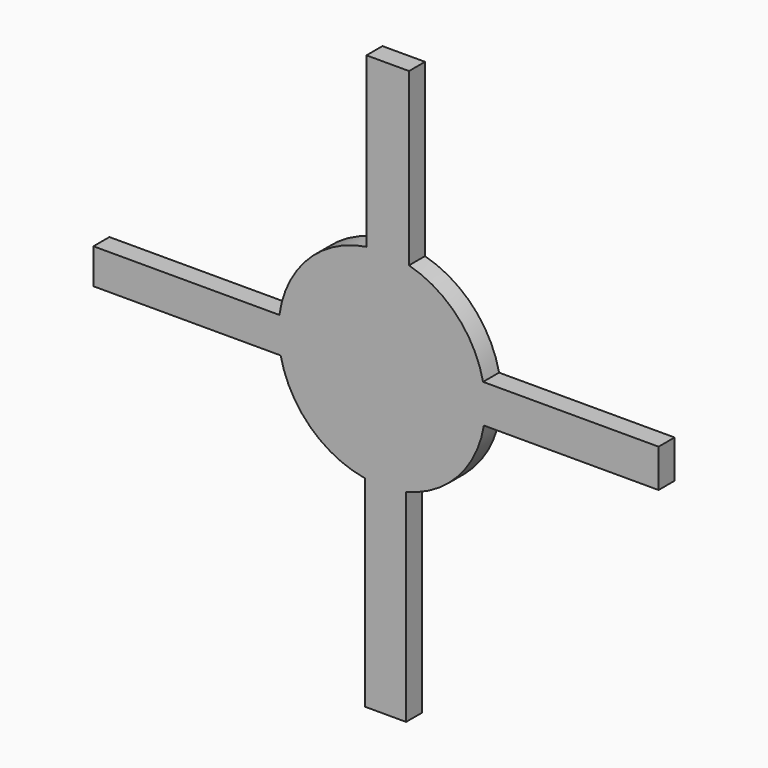
from build123d import *

# Parameters (mm, degrees)
F1_DEPTH = 3.81


with BuildPart() as f1:
    # F0 (on Front) → F1 (new body)
    with BuildSketch(Plane.XZ):
        with BuildLine():
            ThreePointArc((-2.93743, 19.487217), (1.143593, 19.674153), (5.175473, 19.015641))
            Line((5.175473, 19.015641), (5.175473, 51.614843))
            Line((5.175473, 51.614843), (-2.93743, 51.614843))
            Line((-2.93743, 51.614843), (-2.93743, 19.487217))
        make_face()
        with BuildLine():
            Line((5.175473, 11.889598), (5.175473, 19.015641))
            ThreePointArc((5.175473, 19.015641), (1.143593, 19.674153), (-2.93743, 19.487217))
            Line((-2.93743, 19.487217), (-2.93743, 11.889598))
            Line((-2.93743, 11.889598), (5.175473, 11.889598))
        make_face()
        with BuildLine():
            Line((11.050331, 4.056451), (19.285365, 4.056451))
            ThreePointArc((19.285365, 4.056451), (14.33623, 13.522301), (5.175473, 19.015641))
            Line((5.175473, 19.015641), (5.175473, 11.889598))
            Line((5.175473, 11.889598), (-2.93743, 11.889598))
            Line((-2.93743, 11.889598), (-2.93743, 19.487217))
            ThreePointArc((-2.93743, 19.487217), (-14.034771, 13.83493), (-19.527337, 2.657675))
            Line((-19.527337, 2.657675), (-16.645437, 2.657675))
            Line((-16.645437, 2.657675), (-16.645437, -4.056451))
            Line((-16.645437, -4.056451), (-19.285365, -4.056451))
            ThreePointArc((-19.285365, -4.056451), (-13.630025, -14.233851), (-3.217186, -19.442989))
            Line((-3.217186, -19.442989), (-3.217186, -13.568129))
            Line((-3.217186, -13.568129), (4.615963, -13.568129))
            Line((4.615963, -13.568129), (4.615963, -19.159149))
            ThreePointArc((4.615963, -19.159149), (14.430691, -13.421448), (19.442989, -3.217185))
            Line((19.442989, -3.217185), (11.050331, -3.217185))
            Line((11.050331, -3.217185), (11.050331, 4.056451))
        make_face()
        with BuildLine():
            ThreePointArc((-19.285365, -4.056451), (-19.694576, -0.709775), (-19.527337, 2.657675))
            Line((-19.527337, 2.657675), (-54.971907, 2.657675))
            Line((-54.971907, 2.657675), (-54.971907, -4.056451))
            Line((-54.971907, -4.056451), (-35.38904, -4.056451))
            Line((-35.38904, -4.056451), (-19.285365, -4.056451))
        make_face()
        with BuildLine():
            Line((-16.645437, 2.657675), (-19.527337, 2.657675))
            ThreePointArc((-19.527337, 2.657675), (-19.694576, -0.709775), (-19.285365, -4.056451))
            Line((-19.285365, -4.056451), (-16.645437, -4.056451))
            Line((-16.645437, -4.056451), (-16.645437, 2.657675))
        make_face()
        with BuildLine():
            ThreePointArc((19.442989, -3.217185), (19.641157, -1.614015), (19.707362, 0))
            ThreePointArc((19.707362, 0), (19.601579, 2.039171), (19.285365, 4.056451))
            Line((19.285365, 4.056451), (11.050331, 4.056451))
            Line((11.050331, 4.056451), (11.050331, -3.217185))
            Line((11.050331, -3.217185), (19.442989, -3.217185))
        make_face()
        with BuildLine():
            ThreePointArc((19.285365, 4.056451), (19.601579, 2.039171), (19.707362, 0))
            ThreePointArc((19.707362, 0), (19.641157, -1.614015), (19.442989, -3.217185))
            Line((19.442989, -3.217185), (52.733861, -3.217185))
            Line((52.733861, -3.217185), (52.733861, 4.056451))
            Line((52.733861, 4.056451), (19.285365, 4.056451))
        make_face()
        with BuildLine():
            ThreePointArc((-3.217186, -19.442989), (0.713642, -19.694436), (4.615963, -19.159149))
            Line((4.615963, -19.159149), (4.615963, -13.568129))
            Line((4.615963, -13.568129), (-3.217186, -13.568129))
            Line((-3.217186, -13.568129), (-3.217186, -19.442989))
        make_face()
        with BuildLine():
            Line((4.615963, -57.769459), (4.615963, -19.159149))
            ThreePointArc((4.615963, -19.159149), (0.713642, -19.694436), (-3.217186, -19.442989))
            Line((-3.217186, -19.442989), (-3.217186, -48.817288))
            Line((-3.217186, -48.817288), (-3.217186, -57.769459))
            Line((-3.217186, -57.769459), (4.615963, -57.769459))
        make_face()
    extrude(amount=F1_DEPTH)


solid = f1.part
